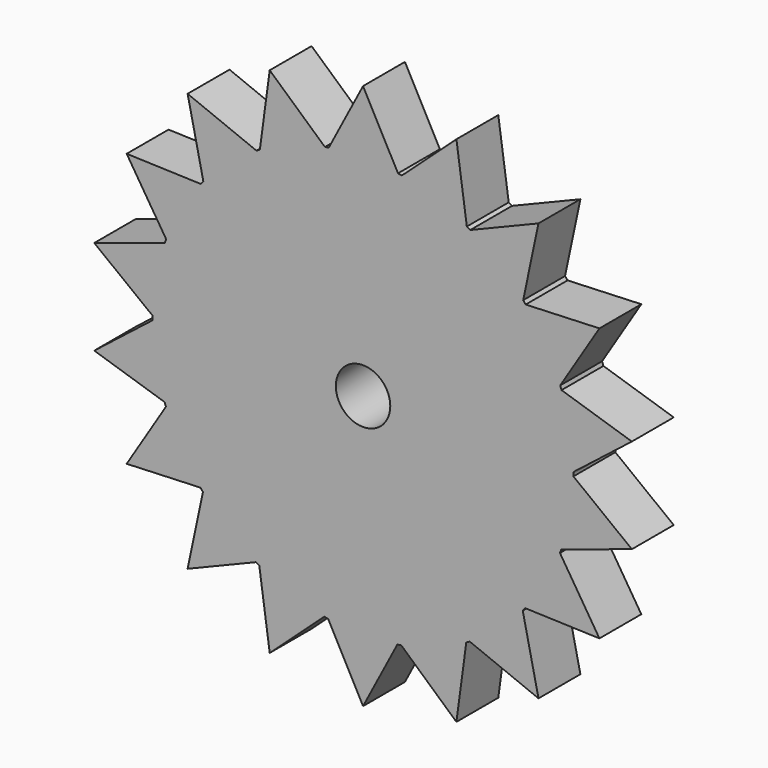
from build123d import *

# Parameters (mm, degrees)
F1_DEPTH = 6.35
F2_R     = 3.302
F3_DEPTH = 6.35


with BuildPart() as f1:
    # F0 (on Front) → F1 (new body)
    with BuildSketch(Plane.XZ):
        with BuildLine():
            ThreePointArc((25.517982, -0.276728), (25.519107, -0.138366), (25.519482, 0))
            ThreePointArc((25.519482, 0), (25.519289, 0.099401), (25.518708, 0.198801))
            ThreePointArc((25.518708, 0.198801), (25.138521, 4.393033), (24.073706, 8.467624))
            ThreePointArc((24.073706, 8.467624), (23.993768, 8.691551), (23.911748, 8.914724))
            ThreePointArc((23.911748, 8.914724), (22.119977, 12.725981), (19.725786, 16.190656))
            ThreePointArc((19.725786, 16.190656), (19.574081, 16.373739), (19.420678, 16.555399))
            ThreePointArc((19.420678, 16.555399), (16.433437, 19.523988), (12.998645, 21.960856))
            ThreePointArc((12.998645, 21.960856), (12.793471, 22.081011), (12.587188, 22.19925))
            ThreePointArc((12.587188, 22.19925), (8.764782, 23.967114), (4.703675, 25.082253))
            ThreePointArc((4.703675, 25.082253), (4.46978, 25.124988), (4.235497, 25.165543))
            ThreePointArc((4.235497, 25.165543), (0.038966, 25.519453), (-4.158627, 25.17836))
            ThreePointArc((-4.158627, 25.17836), (-4.393033, 25.138521), (-4.627058, 25.0965))
            ThreePointArc((-4.627058, 25.0965), (-8.691551, 23.993768), (-12.519337, 22.237585))
            ThreePointArc((-12.519337, 22.237585), (-12.725981, 22.119977), (-12.93152, 22.000449))
            ThreePointArc((-12.93152, 22.000449), (-16.373739, 19.574081), (-19.370031, 16.614629))
            ThreePointArc((-19.370031, 16.614629), (-19.523988, 16.433437), (-19.676251, 16.250819))
            ThreePointArc((-19.676251, 16.250819), (-22.081011, 12.793471), (-23.884413, 8.987703))
            ThreePointArc((-23.884413, 8.987703), (-23.967114, 8.764782), (-24.047735, 8.541101))
            ThreePointArc((-24.047735, 8.541101), (-25.124988, 4.46978), (-25.517982, 0.276728))
            ThreePointArc((-25.517982, 0.276728), (-25.519453, 0.038966), (-25.518708, -0.198801))
            ThreePointArc((-25.518708, -0.198801), (-25.138521, -4.393033), (-24.073706, -8.467624))
            ThreePointArc((-24.073706, -8.467624), (-23.993768, -8.691551), (-23.911748, -8.914724))
            ThreePointArc((-23.911748, -8.914724), (-22.119977, -12.725981), (-19.725786, -16.190656))
            ThreePointArc((-19.725786, -16.190656), (-19.574081, -16.373739), (-19.420678, -16.555399))
            ThreePointArc((-19.420678, -16.555399), (-16.433437, -19.523988), (-12.998645, -21.960856))
            ThreePointArc((-12.998645, -21.960856), (-12.793471, -22.081011), (-12.587188, -22.19925))
            ThreePointArc((-12.587188, -22.19925), (-8.764782, -23.967114), (-4.703675, -25.082253))
            ThreePointArc((-4.703675, -25.082253), (-4.46978, -25.124988), (-4.235497, -25.165543))
            ThreePointArc((-4.235497, -25.165543), (-0.038966, -25.519453), (4.158627, -25.17836))
            ThreePointArc((4.158627, -25.17836), (4.393033, -25.138521), (4.627058, -25.0965))
            ThreePointArc((4.627058, -25.0965), (8.691551, -23.993768), (12.519337, -22.237585))
            ThreePointArc((12.519337, -22.237585), (12.725981, -22.119977), (12.93152, -22.000449))
            ThreePointArc((12.93152, -22.000449), (16.373739, -19.574081), (19.370031, -16.614629))
            ThreePointArc((19.370031, -16.614629), (19.523988, -16.433437), (19.676251, -16.250819))
            ThreePointArc((19.676251, -16.250819), (22.081011, -12.793471), (23.884413, -8.987703))
            ThreePointArc((23.884413, -8.987703), (23.967114, -8.764782), (24.047735, -8.541101))
            ThreePointArc((24.047735, -8.541101), (25.124988, -4.46978), (25.517982, -0.276728))
        make_face()
        with BuildLine():
            ThreePointArc((24.073706, 8.467624), (25.138521, 4.393033), (25.518708, 0.198801))
            Line((25.518708, 0.198801), (32.604608, 5.749072))
            Line((32.604608, 5.749072), (24.073706, 8.467624))
        make_face()
        with BuildLine():
            Line((32.604608, -5.749072), (25.517982, -0.276728))
            ThreePointArc((25.517982, -0.276728), (25.124988, -4.46978), (24.047735, -8.541101))
            Line((24.047735, -8.541101), (32.604608, -5.749072))
        make_face()
        with BuildLine():
            ThreePointArc((19.725786, 16.190656), (22.119977, 12.725981), (23.911748, 8.914724))
            Line((23.911748, 8.914724), (28.672011, 16.553793))
            Line((28.672011, 16.553793), (19.725786, 16.190656))
        make_face()
        with BuildLine():
            Line((28.672011, -16.553793), (23.884413, -8.987703))
            ThreePointArc((23.884413, -8.987703), (22.081011, -12.793471), (19.676251, -16.250819))
            Line((19.676251, -16.250819), (28.672011, -16.553793))
        make_face()
        with BuildLine():
            ThreePointArc((12.998645, 21.960856), (16.433437, 19.523988), (19.420678, 16.555399))
            Line((19.420678, 16.555399), (21.281146, 25.361882))
            Line((21.281146, 25.361882), (12.998645, 21.960856))
        make_face()
        with BuildLine():
            Line((21.281146, -25.361882), (19.370031, -16.614629))
            ThreePointArc((19.370031, -16.614629), (16.373739, -19.574081), (12.93152, -22.000449))
            Line((12.93152, -22.000449), (21.281146, -25.361882))
        make_face()
        with BuildLine():
            ThreePointArc((4.703675, 25.082253), (8.764782, 23.967114), (12.587188, 22.19925))
            Line((12.587188, 22.19925), (11.323461, 31.110954))
            Line((11.323461, 31.110954), (4.703675, 25.082253))
        make_face()
        with BuildLine():
            Line((11.323461, -31.110954), (12.519337, -22.237585))
            ThreePointArc((12.519337, -22.237585), (8.691551, -23.993768), (4.627058, -25.0965))
            Line((4.627058, -25.0965), (11.323461, -31.110954))
        make_face()
        with BuildLine():
            ThreePointArc((-4.158627, 25.17836), (0.038966, 25.519453), (4.235497, 25.165543))
            Line((4.235497, 25.165543), (0, 33.107586))
            Line((0, 33.107586), (-4.158627, 25.17836))
        make_face()
        with BuildLine():
            Line((0, -33.107586), (4.158627, -25.17836))
            ThreePointArc((4.158627, -25.17836), (-0.038966, -25.519453), (-4.235497, -25.165543))
            Line((-4.235497, -25.165543), (0, -33.107586))
        make_face()
        with BuildLine():
            ThreePointArc((-12.519337, 22.237585), (-8.691551, 23.993768), (-4.627058, 25.0965))
            Line((-4.627058, 25.0965), (-11.323461, 31.110954))
            Line((-11.323461, 31.110954), (-12.519337, 22.237585))
        make_face()
        with BuildLine():
            Line((-11.323461, -31.110954), (-4.703675, -25.082253))
            ThreePointArc((-4.703675, -25.082253), (-8.764782, -23.967114), (-12.587188, -22.19925))
            Line((-12.587188, -22.19925), (-11.323461, -31.110954))
        make_face()
        with BuildLine():
            ThreePointArc((-19.370031, 16.614629), (-16.373739, 19.574081), (-12.93152, 22.000449))
            Line((-12.93152, 22.000449), (-21.281146, 25.361882))
            Line((-21.281146, 25.361882), (-19.370031, 16.614629))
        make_face()
        with BuildLine():
            Line((-21.281146, -25.361882), (-12.998645, -21.960856))
            ThreePointArc((-12.998645, -21.960856), (-16.433437, -19.523988), (-19.420678, -16.555399))
            Line((-19.420678, -16.555399), (-21.281146, -25.361882))
        make_face()
        with BuildLine():
            ThreePointArc((-23.884413, 8.987703), (-22.081011, 12.793471), (-19.676251, 16.250819))
            Line((-19.676251, 16.250819), (-28.672011, 16.553793))
            Line((-28.672011, 16.553793), (-23.884413, 8.987703))
        make_face()
        with BuildLine():
            Line((-28.672011, -16.553793), (-19.725786, -16.190656))
            ThreePointArc((-19.725786, -16.190656), (-22.119977, -12.725981), (-23.911748, -8.914724))
            Line((-23.911748, -8.914724), (-28.672011, -16.553793))
        make_face()
        with BuildLine():
            ThreePointArc((-25.517982, 0.276728), (-25.124988, 4.46978), (-24.047735, 8.541101))
            Line((-24.047735, 8.541101), (-32.604608, 5.749072))
            Line((-32.604608, 5.749072), (-25.517982, 0.276728))
        make_face()
        with BuildLine():
            Line((-32.604608, -5.749072), (-24.073706, -8.467624))
            ThreePointArc((-24.073706, -8.467624), (-25.138521, -4.393033), (-25.518708, -0.198801))
            Line((-25.518708, -0.198801), (-32.604608, -5.749072))
        make_face()
    extrude(amount=F1_DEPTH)

    # F2 (on face) → F3 (cut)
    with BuildSketch(Plane.XZ.offset(6.35)):
        Circle(F2_R)
    extrude(amount=-F3_DEPTH, mode=Mode.SUBTRACT)


solid = f1.part
